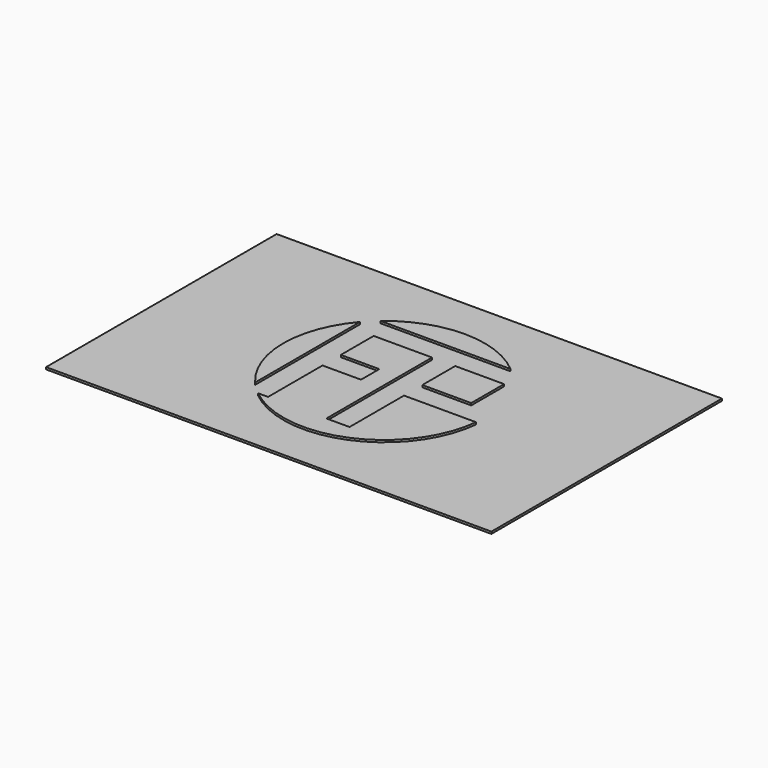
from build123d import *

# Parameters (mm, degrees)
F0_W     = 85
F0_H     = 55
F1_DEPTH = 0.4
F3_DEPTH = 0.4


with BuildPart() as f1:
    # F0 (on Top) → F1 (new body)
    with BuildSketch(Plane.XY):
        Rectangle(F0_W, F0_H)
    extrude(amount=F1_DEPTH)

    # F2 (on face) → F3 (join)
    with BuildSketch(Plane.XY.offset(0.4)):
        with BuildLine():
            Line((-10.172568, 10.256139), (-10.172568, 2.418078))
            Line((-10.172568, 2.418078), (-2.829556, 2.418078))
            Line((-2.829556, 2.418078), (-2.829556, -1.954707))
            Line((-2.829556, -1.954707), (-10.172568, -1.954707))
            Line((-10.172568, -1.954707), (-10.172568, -14.949387))
            Line((-10.172568, -14.949387), (-12.078729, -14.949387))
            ThreePointArc((-12.078729, -14.949387), (7.389782, -17.741787), (19.119597, -1.954707))
            Line((19.119597, -1.954707), (5.381422, -1.954707))
            Line((5.381422, -1.954707), (5.384529, -14.949387))
            Line((5.384529, -14.949387), (0.97045, -14.949387))
            Line((0.97045, -14.949387), (0.97045, 10.256139))
            Line((0.97045, 10.256139), (-10.172568, 10.256139))
        make_face()
        with BuildLine():
            ThreePointArc((-14.586647, 12.514376), (-19.219258, 0), (-14.586647, -12.514376))
            Line((-14.586647, -12.514376), (-14.586647, 12.514376))
        make_face()
        Polygon((14.71059, 2.418078), (14.713768, 10.256139), (5.384529, 10.256139), (5.381422, 2.418078), align=None)
        with BuildLine():
            ThreePointArc((12.416224, 14.670285), (0, 19.219258), (-12.416224, 14.670285))
            Line((-12.416224, 14.670285), (0.97045, 14.670285))
            Line((0.97045, 14.670285), (1.213219, 14.670285))
            Line((1.213219, 14.670285), (12.416224, 14.670285))
        make_face()
    extrude(amount=F3_DEPTH)


solid = f1.part
